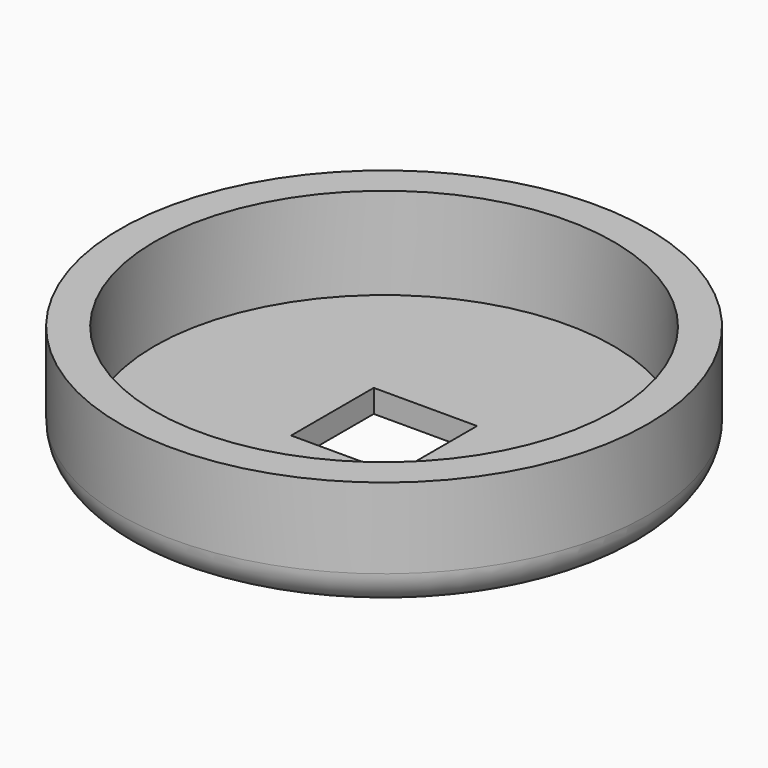
from build123d import *

# Parameters (mm, degrees)
F0_R     = 23
F0_R_2   = 20
F1_DEPTH = 10
F2_R     = 20
F2_W     = 9
F2_H     = 9
F3_DEPTH = 2
F4_R     = 3


with BuildPart() as f1:
    # F0 (on Top) → F1 (new body)
    with BuildSketch(Plane.XY):
        Circle(F0_R)
        Circle(F0_R_2, mode=Mode.SUBTRACT)
    extrude(amount=F1_DEPTH)

    # F2 (on Top) → F3 (join)
    with BuildSketch(Plane.XY):
        Circle(F2_R)
        Rectangle(F2_W, F2_H, mode=Mode.SUBTRACT)
    extrude(amount=F3_DEPTH)

    # F4
    f4_edges = [f1.edges().sort_by_distance(p)[0] for p in [
        (-23, 0, 0),
    ]]
    fillet(f4_edges, radius=F4_R)


solid = f1.part
